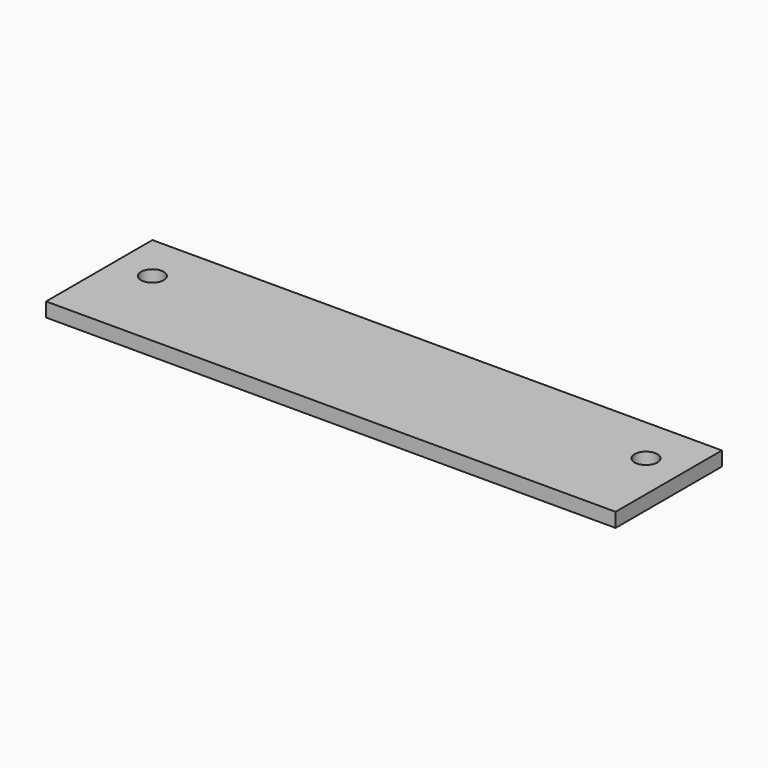
from build123d import *

# Parameters (mm, degrees)
SKETCH_W  = 600
SKETCH_H  = 140
SKETCH_R  = 12
PAD_DEPTH = 15


with BuildPart() as part:
    # Sketch → Pad (new body)
    with BuildSketch(Plane.XY):
        with Locations((300, 70)):
            Rectangle(SKETCH_W, SKETCH_H)
        with Locations((40, 90)):
            Circle(SKETCH_R, mode=Mode.SUBTRACT)
        with Locations((560, 90)):
            Circle(SKETCH_R, mode=Mode.SUBTRACT)
    extrude(amount=PAD_DEPTH)


solid = part.part
